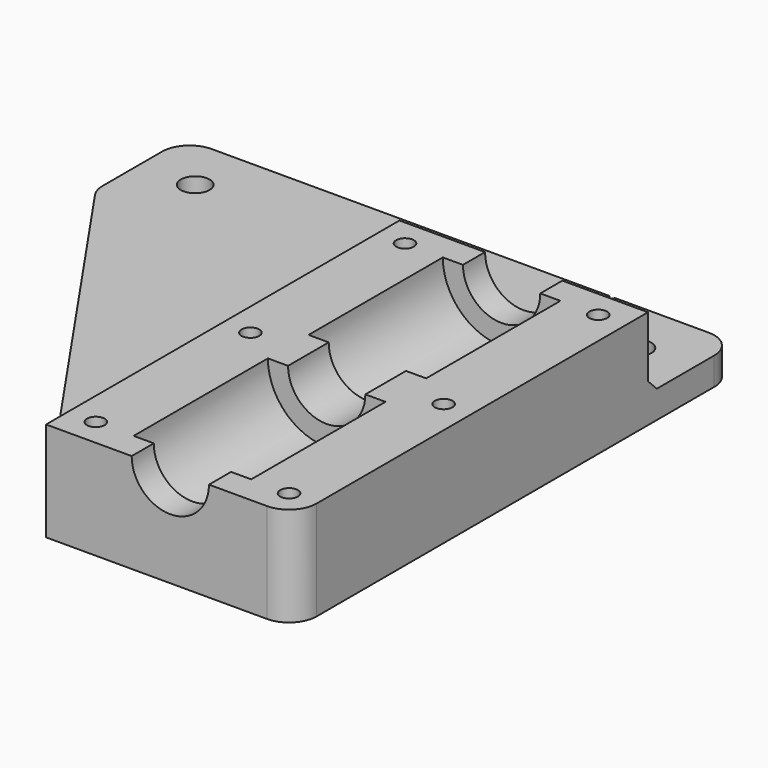
from build123d import *

# Parameters (mm, degrees)
PAD_DEPTH       = 80
PAD_DEPTH_BACK  = 20
SKETCH001_R     = 2.6
SKETCH001_R_2   = 1.6
SKETCH001_R_3   = 0.5
POCKET_DEPTH    = 18.001
SKETCH002_W     = 62.404188
SKETCH002_H     = 27.650393
POCKET001_DEPTH = 13
POCKET002_DEPTH = 5
SKETCH004_R     = 10.65
POCKET003_DEPTH = 30.4
SKETCH005_R     = 10.65
POCKET004_DEPTH = 30.4
FILLET_R        = 5
CHAMFER_SIZE    = 2


with BuildPart() as part:
    # Sketch → Pad (new body, two sides)
    with BuildSketch(Plane.XZ) as pad_sk:
        with BuildLine():
            Line((-77.5, -18), (-77.5, -13))
            Line((-77.5, -13), (-22.5, -13))
            Line((-22.5, -13), (-22.5, 0))
            Line((-7, 0), (-22.5, 0))
            ThreePointArc((-7, 0), (0, -7), (7, 0))
            Line((7, 0), (22.5, 0))
            Line((22.5, 0), (22.5, -18))
            Line((22.5, -18), (-77.5, -18))
        make_face()
    extrude(amount=PAD_DEPTH)
    extrude(pad_sk.sketch, amount=-PAD_DEPTH_BACK)

    # Sketch001 → Pocket (cut, through all)
    with BuildSketch(Plane.XY):
        with Locations((-67.5, 10)):
            Circle(SKETCH001_R)
        with Locations((-27.5, 10)):
            Circle(SKETCH001_R)
        with Locations((12.5, 10)):
            Circle(SKETCH001_R)
        with Locations((-17.5, -5)):
            Circle(SKETCH001_R_2)
        with Locations((-17.5, -40)):
            Circle(SKETCH001_R_2)
        with Locations((-17.5, -75)):
            Circle(SKETCH001_R_2)
        with Locations((17.5, -5)):
            Circle(SKETCH001_R_2)
        with Locations((17.5, -40)):
            Circle(SKETCH001_R_2)
        with Locations((17.5, -75)):
            Circle(SKETCH001_R_2)
        with Locations((0, 20)):
            Circle(SKETCH001_R_3)
        Polygon((-77.5, 0), (-77.5, -80), (-22.5, -80), align=None)
    extrude(amount=-POCKET_DEPTH, mode=Mode.SUBTRACT)

    # Sketch002 → Pocket001 (cut)
    with BuildSketch(Plane.XY):
        with Locations((0, 13.825196)):
            Rectangle(SKETCH002_W, SKETCH002_H)
    extrude(amount=-POCKET001_DEPTH, mode=Mode.SUBTRACT)

    # Sketch003 (on DatumPlane) → Pocket002 (cut)
    with BuildSketch(Plane.XY.offset(-18)):
        Polygon((-14.7, -3.383419), (-17.5, -1.766838), (-20.3, -3.383419), (-20.3, -6.616581), (-17.5, -8.233162), (-14.7, -6.616581), align=None)
        Polygon((-14.7, -41.616581), (-14.7, -38.383419), (-17.5, -36.766838), (-20.3, -38.383419), (-20.3, -41.616581), (-17.5, -43.233162), align=None)
        Polygon((-14.7, -76.616581), (-14.7, -73.383419), (-17.5, -71.766838), (-20.3, -73.383419), (-20.3, -76.616581), (-17.5, -78.233162), align=None)
        Polygon((17.5, -78.233162), (20.3, -76.616581), (20.3, -73.383419), (17.5, -71.766838), (14.7, -73.383419), (14.7, -76.616581), align=None)
        Polygon((20.3, -41.616581), (20.3, -38.383419), (17.5, -36.766838), (14.7, -38.383419), (14.7, -41.616581), (17.5, -43.233162), align=None)
        Polygon((20.3, -3.383419), (17.5, -1.766838), (14.7, -3.383419), (14.7, -6.616581), (17.5, -8.233162), (20.3, -6.616581), align=None)
    extrude(amount=POCKET002_DEPTH, mode=Mode.SUBTRACT)

    # Sketch004 (on DatumPlane) → Pocket003 (cut)
    with BuildSketch(Plane.XZ.offset(5)):
        Circle(SKETCH004_R)
    extrude(amount=POCKET003_DEPTH, mode=Mode.SUBTRACT)

    # Sketch005 (on DatumPlane) → Pocket004 (cut)
    with BuildSketch(Plane.XZ.offset(75)):
        Circle(SKETCH005_R)
    extrude(amount=-POCKET004_DEPTH, mode=Mode.SUBTRACT)

    # Fillet
    fillet_edges = [part.edges().sort_by_distance(p)[0] for p in [
        (22.5, 20, -15.5),
        (-77.5, 20, -15.5),
        (-77.5, 0, -15.5),
        (22.5, -80, -9),
    ]]
    fillet(fillet_edges, radius=FILLET_R)

    # Chamfer
    chamfer_edges = [part.edges().sort_by_distance(p)[0] for p in [
        (-22.5, -40, -13),
        (0, 0, -13),
    ]]
    chamfer(chamfer_edges, length=CHAMFER_SIZE)


solid = part.part
